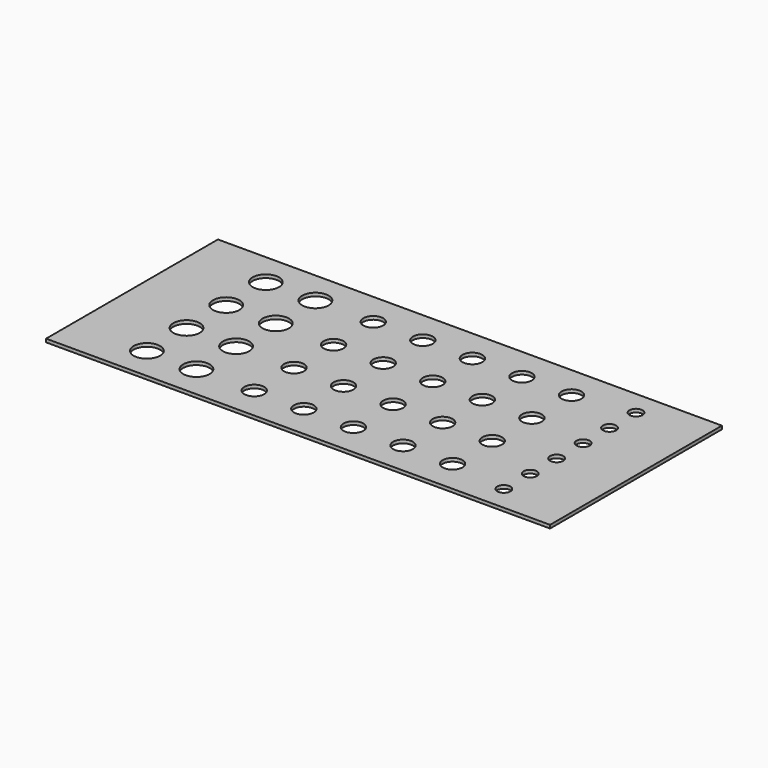
from build123d import *

# Parameters (mm, degrees)
F0_W     = 305
F0_H     = 130
F0_R     = 8
F0_R_2   = 6
F0_R_3   = 4
F1_DEPTH = 2


with BuildPart() as f1:
    # F0 (on Top) → F1 (new body)
    with BuildSketch(Plane.XY):
        with Locations((-9.918909, 18.659621)):
            Rectangle(F0_W, F0_H)
        with Locations((-117.418909, -26.340379)):
            Circle(F0_R, mode=Mode.SUBTRACT)
        with Locations((-87.418909, -26.340379)):
            Circle(F0_R, mode=Mode.SUBTRACT)
        with Locations((-52.418909, -26.340379)):
            Circle(F0_R_2, mode=Mode.SUBTRACT)
        with Locations((-22.418909, -26.340379)):
            Circle(F0_R_2, mode=Mode.SUBTRACT)
        with Locations((-117.418909, 3.659621)):
            Circle(F0_R, mode=Mode.SUBTRACT)
        with Locations((-87.418909, 3.659621)):
            Circle(F0_R, mode=Mode.SUBTRACT)
        with Locations((-52.418909, 3.659621)):
            Circle(F0_R_2, mode=Mode.SUBTRACT)
        with Locations((-22.418909, 3.659621)):
            Circle(F0_R_2, mode=Mode.SUBTRACT)
        with Locations((7.581091, -26.340379)):
            Circle(F0_R_2, mode=Mode.SUBTRACT)
        with Locations((37.581091, -26.340379)):
            Circle(F0_R_2, mode=Mode.SUBTRACT)
        with Locations((102.581091, -31.340379)):
            Circle(F0_R_3, mode=Mode.SUBTRACT)
        with Locations((67.581091, -26.340379)):
            Circle(F0_R_2, mode=Mode.SUBTRACT)
        with Locations((7.581091, 3.659621)):
            Circle(F0_R_2, mode=Mode.SUBTRACT)
        with Locations((37.581091, 3.659621)):
            Circle(F0_R_2, mode=Mode.SUBTRACT)
        with Locations((102.581091, -11.340379)):
            Circle(F0_R_3, mode=Mode.SUBTRACT)
        with Locations((67.581091, 3.659621)):
            Circle(F0_R_2, mode=Mode.SUBTRACT)
        with Locations((102.581091, 8.659621)):
            Circle(F0_R_3, mode=Mode.SUBTRACT)
        with Locations((-117.418909, 33.659621)):
            Circle(F0_R, mode=Mode.SUBTRACT)
        with Locations((-87.418909, 33.659621)):
            Circle(F0_R, mode=Mode.SUBTRACT)
        with Locations((-52.418909, 33.659621)):
            Circle(F0_R_2, mode=Mode.SUBTRACT)
        with Locations((-22.418909, 33.659621)):
            Circle(F0_R_2, mode=Mode.SUBTRACT)
        with Locations((-117.418909, 63.659621)):
            Circle(F0_R, mode=Mode.SUBTRACT)
        with Locations((-87.418909, 63.659621)):
            Circle(F0_R, mode=Mode.SUBTRACT)
        with Locations((-52.418909, 63.659621)):
            Circle(F0_R_2, mode=Mode.SUBTRACT)
        with Locations((-22.418909, 63.659621)):
            Circle(F0_R_2, mode=Mode.SUBTRACT)
        with Locations((7.581091, 33.659621)):
            Circle(F0_R_2, mode=Mode.SUBTRACT)
        with Locations((37.581091, 33.659621)):
            Circle(F0_R_2, mode=Mode.SUBTRACT)
        with Locations((67.581091, 33.659621)):
            Circle(F0_R_2, mode=Mode.SUBTRACT)
        with Locations((102.581091, 28.659621)):
            Circle(F0_R_3, mode=Mode.SUBTRACT)
        with Locations((102.581091, 48.659621)):
            Circle(F0_R_3, mode=Mode.SUBTRACT)
        with Locations((7.581091, 63.659621)):
            Circle(F0_R_2, mode=Mode.SUBTRACT)
        with Locations((37.581091, 63.659621)):
            Circle(F0_R_2, mode=Mode.SUBTRACT)
        with Locations((67.581091, 63.659621)):
            Circle(F0_R_2, mode=Mode.SUBTRACT)
        with Locations((102.581091, 68.659621)):
            Circle(F0_R_3, mode=Mode.SUBTRACT)
    extrude(amount=F1_DEPTH)


solid = f1.part
